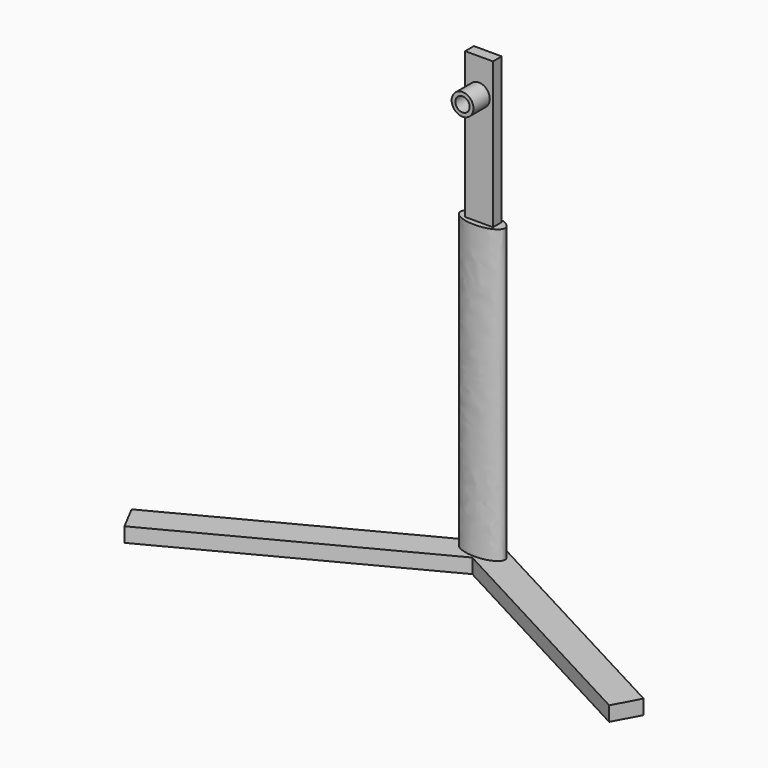
from build123d import *

# Parameters (mm, degrees)
F1_DEPTH = 5
F3_DEPTH = 100
F4_W     = 9.521216
F4_H     = 3.7414
F5_DEPTH = 50
F6_R     = 3.733337
F6_R_2   = 2.450284
F7_DEPTH = 7


with BuildPart() as f1:
    # F0 (on Top) → F1 (new body)
    with BuildSketch(Plane.XY):
        Polygon((86.774706, -46.42635), (0, 0), (-88.592949, -46.381995), (-83.954749, -55.24129), (0, -11.28758), (82.052752, -55.24129), align=None)
    extrude(amount=F1_DEPTH)

    # F2 (on face) → F3 (join)
    with BuildSketch(Plane.XY.offset(5)):
        with BuildLine():
            add(Edge.make_bspline(
                [(7.657392, -6.811927), (7.657392, -0.583728), (-3.828696, -3.697827), (-15.314785, -6.811927), (-3.828696, -9.926026), (7.657392, -13.040125), (7.657392, -6.811927)],
                knots=[0, 0, 0, 2.094395, 2.094395, 4.18879, 4.18879, 6.283185, 6.283185, 6.283185], degree=2, weights=[1, 0.5, 1, 0.5, 1, 0.5, 1]))
        make_face()
    extrude(amount=F3_DEPTH)

    # F4 (on face) → F5 (join)
    with BuildSketch(Plane.XY.offset(105)):
        with Locations((0.056875, -6.585793)):
            Rectangle(F4_W, F4_H)
    extrude(amount=F5_DEPTH)


with BuildPart() as f7:
    # F6 (on face) → F7 (new body)
    with BuildSketch(Plane.XZ.offset(8.456493)):
        with Locations((0, 143.328771)):
            Circle(F6_R)
        with Locations((0, 143.328771)):
            Circle(F6_R_2, mode=Mode.SUBTRACT)
    extrude(amount=F7_DEPTH)


solid = Compound([f1.part, f7.part])
